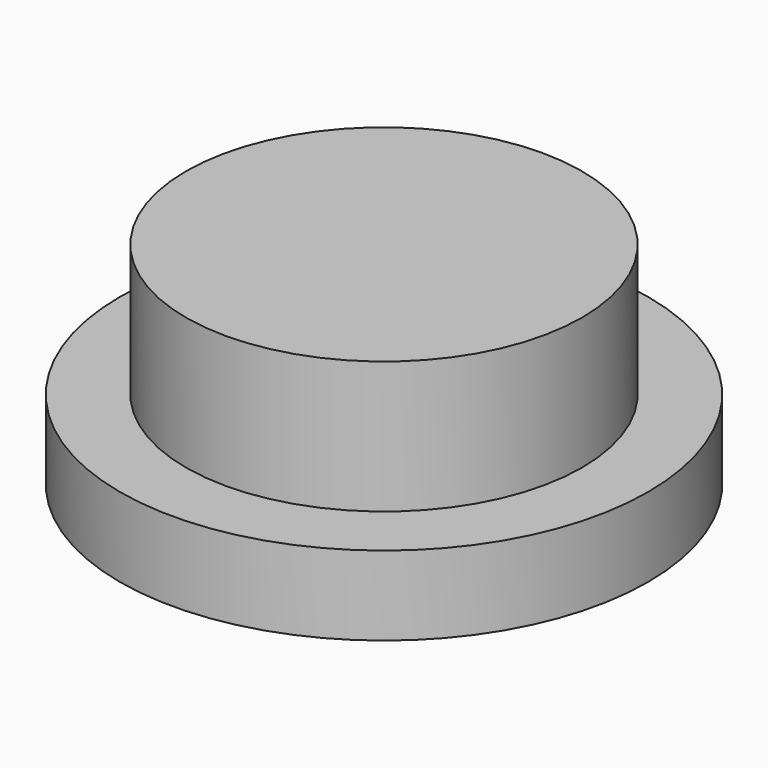
from build123d import *

# Parameters (mm, degrees)
F0_R     = 10
F1_DEPTH = 3
F2_R     = 7.5
F3_DEPTH = 5
F4_W     = 6.5
F4_H     = 2
F4_W_2   = 2
F4_H_2   = 6.5
F5_DEPTH = 1


with BuildPart() as f1:
    # F0 (on Top) → F1 (new body)
    with BuildSketch(Plane.XY):
        Circle(F0_R)
    extrude(amount=F1_DEPTH)

    # F2 (on face) → F3 (join)
    with BuildSketch(Plane.XY.offset(3)):
        Circle(F2_R)
    extrude(amount=F3_DEPTH)

    # F4 (on face) → F5 (cut)
    with BuildSketch(Plane(origin=(0, 0, 0), x_dir=(1, 0, 0), z_dir=(0, 0, -1))):
        with Locations((4.25, 0)):
            Rectangle(F4_W, F4_H)
        with Locations((0, -4.25)):
            Rectangle(F4_W_2, F4_H_2)
        Rectangle(F4_W_2, F4_H)
        with Locations((-4.25, 0)):
            Rectangle(F4_W, F4_H)
        with Locations((0, 4.25)):
            Rectangle(F4_W_2, F4_H_2)
    extrude(amount=-F5_DEPTH, mode=Mode.SUBTRACT)


solid = f1.part
